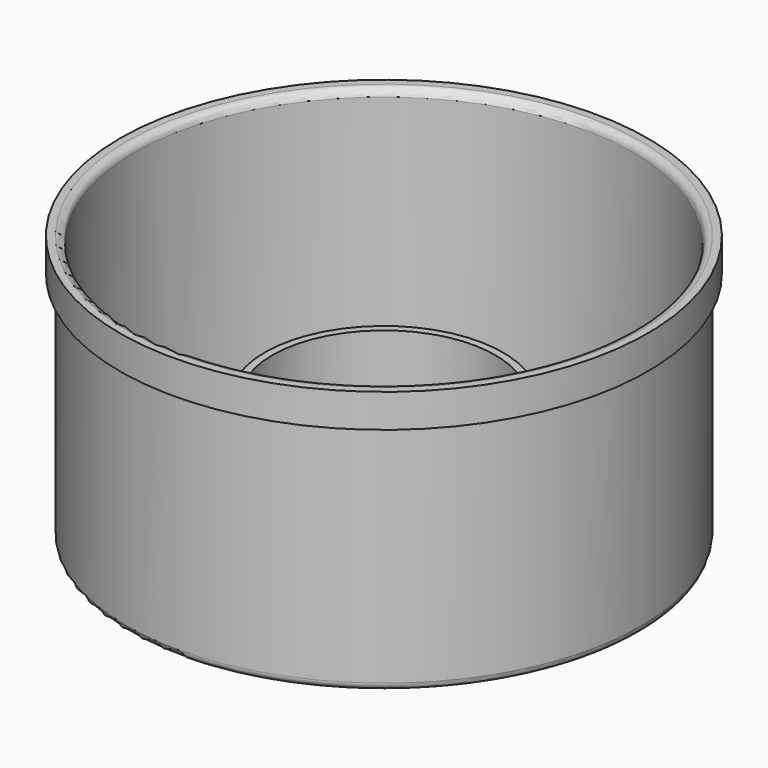
from build123d import *

# Parameters (mm, degrees)
F2_R = 1


with BuildPart() as f1:
    # F0 (on Front) → F1 (revolve)
    with BuildSketch(Plane.XZ):
        with BuildLine():
            Line((-33.5, 0), (-16, 0))
            ThreePointArc((-16, 0), (-15.292893, 0.292893), (-15, 1))
            Line((-15, 1), (-15, 17))
            ThreePointArc((-15, 17), (-15.5, 17.013149), (-16, 17))
            Line((-16, 17), (-16, 4.255122))
            Line((-16, 4.255122), (-15.988545, 1.953905))
            ThreePointArc((-15.988545, 1.953905), (-16.142937, 1.325431), (-16.702322, 1))
            ThreePointArc((-16.702322, 1), (-16.805884, 0.993498), (-16.909445, 1))
            Line((-16.909445, 1), (-33.028781, 1))
            ThreePointArc((-33.028781, 1), (-33.360033, 1.216641), (-33.5, 1.586872))
            Line((-33.5, 1.586872), (-33.5, 36))
            Line((-33.5, 36), (-35.5, 36))
            Line((-35.5, 36), (-35.5, 31.5))
            Line((-35.5, 31.5), (-34.5, 31.5))
            Line((-34.5, 31.5), (-34.5, 1))
            ThreePointArc((-34.5, 1), (-34.207107, 0.292893), (-33.5, 0))
        make_face()
    revolve(axis=Axis((0, 0, 10.195818), (0, 0, -1)))

    # F2
    f2_edges = [f1.edges().sort_by_distance(p)[0] for p in [
        (33.5, 0, 36),
    ]]
    fillet(f2_edges, radius=F2_R)


solid = f1.part
